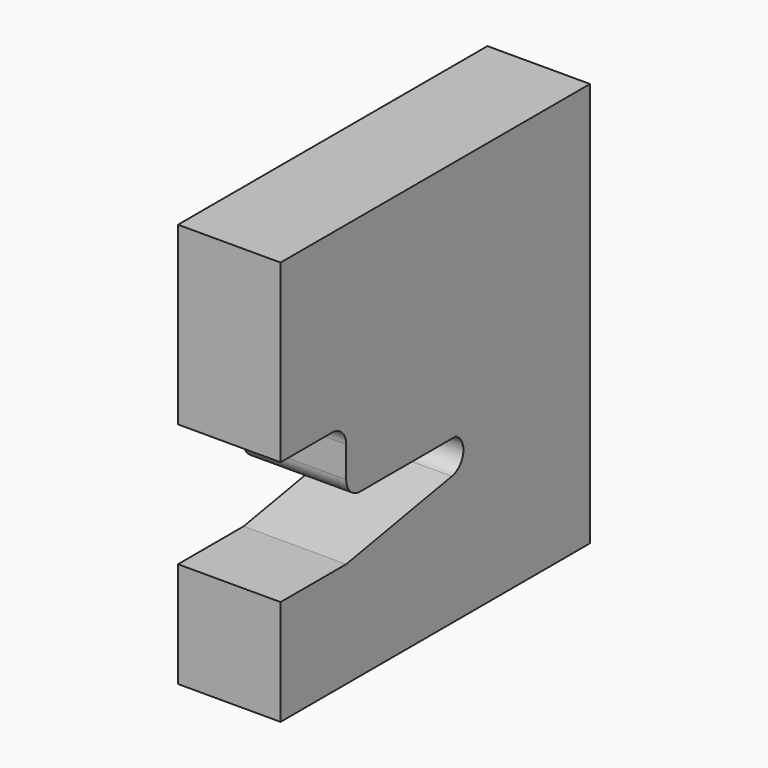
from build123d import *

# Parameters (mm, degrees)
F1_DEPTH = 38.1
F3_DEPTH = 203.2


with BuildPart() as f1:
    # F0 (on Right) → F1 (new body, symmetric)
    with BuildSketch(Plane.YZ):
        with BuildLine():
            ThreePointArc((33.242401, 703.56663), (75.487635, 624.604952), (13.472578, 560.000469))
            Line((13.472578, 560.000469), (-558.8, 457.2))
            Line((-558.8, 457.2), (-914.4, 457.2))
            Line((-914.4, 457.2), (-914.4, 0))
            Line((-914.4, 0), (762, 0))
            Line((762, 0), (762, 1752.6))
            Line((762, 1752.6), (0, 1752.6))
            Line((0, 1752.6), (-914.4, 1752.6))
            Line((-914.4, 1752.6), (-914.4, 1295.4))
            Line((-914.4, 1295.4), (-914.4, 990.6))
            Line((-914.4, 990.6), (-635, 990.6))
            ThreePointArc((-635, 990.6), (-581.118463, 968.281537), (-558.8, 914.4))
            Line((-558.8, 914.4), (-558.8, 779.76663))
            ThreePointArc((-558.8, 779.76663), (-536.481537, 725.885093), (-482.6, 703.56663))
            Line((-482.6, 703.56663), (33.242401, 703.56663))
        make_face()
    extrude(amount=F1_DEPTH, both=True)


with BuildPart() as f3:
    # F2 (on Right) + F1_face (on face) → F3 (new body, symmetric)
    with BuildSketch(Plane.YZ):
        with BuildLine():
            Line((-482.6, 703.56663), (33.242401, 703.56663))
            ThreePointArc((33.242401, 703.56663), (75.487635, 624.604952), (13.472578, 560.000469))
            Line((13.472578, 560.000469), (-558.8, 457.2))
            Line((-558.8, 457.2), (-914.4, 457.2))
            Line((-914.4, 457.2), (-914.4, 0))
            Line((-914.4, 0), (762, 0))
            Line((762, 0), (762, 1752.6))
            Line((762, 1752.6), (-914.4, 1752.6))
            Line((-914.4, 1752.6), (-914.4, 990.6))
            Line((-914.4, 990.6), (-635, 990.6))
            ThreePointArc((-635, 990.6), (-581.118463, 968.281537), (-558.8, 914.4))
            Line((-558.8, 914.4), (-558.8, 779.76663))
            ThreePointArc((-558.8, 779.76663), (-536.481537, 725.885093), (-482.6, 703.56663))
        make_face()
        with BuildLine():
            Line((685.8, 1676.4), (685.8, 76.2))
            Line((685.8, 76.2), (-838.2, 76.2))
            Line((-838.2, 76.2), (-838.2, 381))
            Line((-838.2, 381), (-552.010227, 381))
            Line((-552.010227, 381), (26.945156, 485.000938))
            ThreePointArc((26.945156, 485.000938), (152.026232, 624.333001), (47.627542, 779.76663))
            Line((47.627542, 779.76663), (-482.6, 779.76663))
            Line((-482.6, 779.76663), (-482.6, 914.4))
            ThreePointArc((-482.6, 914.4), (-527.236927, 1022.163073), (-635, 1066.8))
            Line((-635, 1066.8), (-838.2, 1066.8))
            Line((-838.2, 1066.8), (-838.2, 1676.4))
            Line((-838.2, 1676.4), (685.8, 1676.4))
        make_face(mode=Mode.SUBTRACT)
    with BuildSketch(Plane(origin=(38.1, -19.491345, 899.616806), x_dir=(0, 1, 0), z_dir=(1, 0, 0))):
        with BuildLine():
            ThreePointArc((52.733746, -196.050176), (94.97898, -275.011854), (32.963923, -339.616337))
            Line((32.963923, -339.616337), (-539.308655, -442.416806))
            Line((-539.308655, -442.416806), (-894.908655, -442.416806))
            Line((-894.908655, -442.416806), (-894.908655, -899.616806))
            Line((-894.908655, -899.616806), (781.491345, -899.616806))
            Line((781.491345, -899.616806), (781.491345, 852.983194))
            Line((781.491345, 852.983194), (-894.908655, 852.983194))
            Line((-894.908655, 852.983194), (-894.908655, 90.983194))
            Line((-894.908655, 90.983194), (-615.508655, 90.983194))
            ThreePointArc((-615.508655, 90.983194), (-561.627118, 68.664731), (-539.308655, 14.783194))
            Line((-539.308655, 14.783194), (-539.308655, -119.850176))
            ThreePointArc((-539.308655, -119.850176), (-516.990192, -173.731712), (-463.108655, -196.050176))
            Line((-463.108655, -196.050176), (52.733746, -196.050176))
        make_face()
    extrude(amount=F3_DEPTH, both=True)


with BuildPart() as f1_1:
    add(f1.part)

    # F4: union F3
    add(f3.part)


solid = f1_1.part
